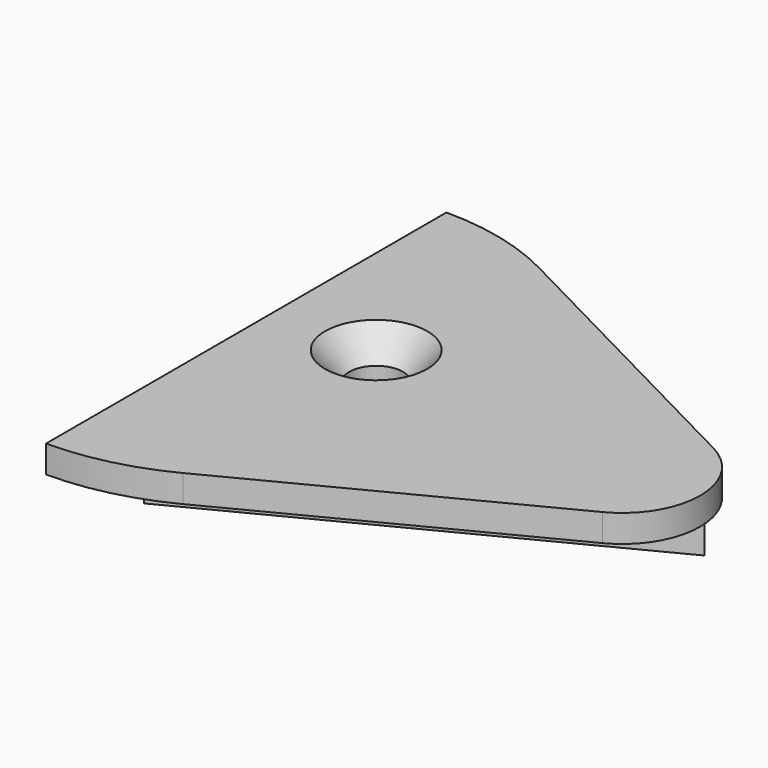
from build123d import *

# Parameters (mm, degrees)
F1_DEPTH       = 2.54
F3_DEPTH       = 6.985
F5_D           = 5
F5_CSINK_D     = 9.5
F5_CSINK_ANGLE = 82


with BuildPart() as f1:
    # F0 (on Top) → F1 (new body)
    with BuildSketch(Plane.XY):
        with BuildLine():
            ThreePointArc((10.648604, 20.65796), (5.478705, 22.58601), (0, 23.241))
            Line((0, 23.241), (0, -23.241))
            ThreePointArc((0, -23.241), (5.478705, -22.58601), (10.648604, -20.65796))
            Line((10.648604, -20.65796), (38.241778, -6.434447))
            ThreePointArc((38.241778, -6.434447), (42.164, 0), (38.241778, 6.434447))
            Line((38.241778, 6.434447), (10.648604, 20.65796))
        make_face()
    extrude(amount=F1_DEPTH)

    # F2 (on face) → F3 (join)
    with BuildSketch(Plane(origin=(0, 0, 0), x_dir=(1, 0, 0), z_dir=(0, 0, -1))):
        with BuildLine():
            Line((36.865278, -7.143994), (0, 11.859031))
            Line((0, 11.859031), (0, -23.241))
            ThreePointArc((0, -23.241), (5.478705, -22.58601), (10.648604, -20.65796))
            Line((10.648604, -20.65796), (36.865278, -7.143994))
        make_face()
    extrude(amount=F3_DEPTH)

    # F5 (through all)
    with Locations(Plane.XY.offset(2.54)):
        with Locations((9.525, 3.175)):
            CounterSinkHole(F5_D / 2, F5_CSINK_D / 2, counter_sink_angle=F5_CSINK_ANGLE)


solid = f1.part
